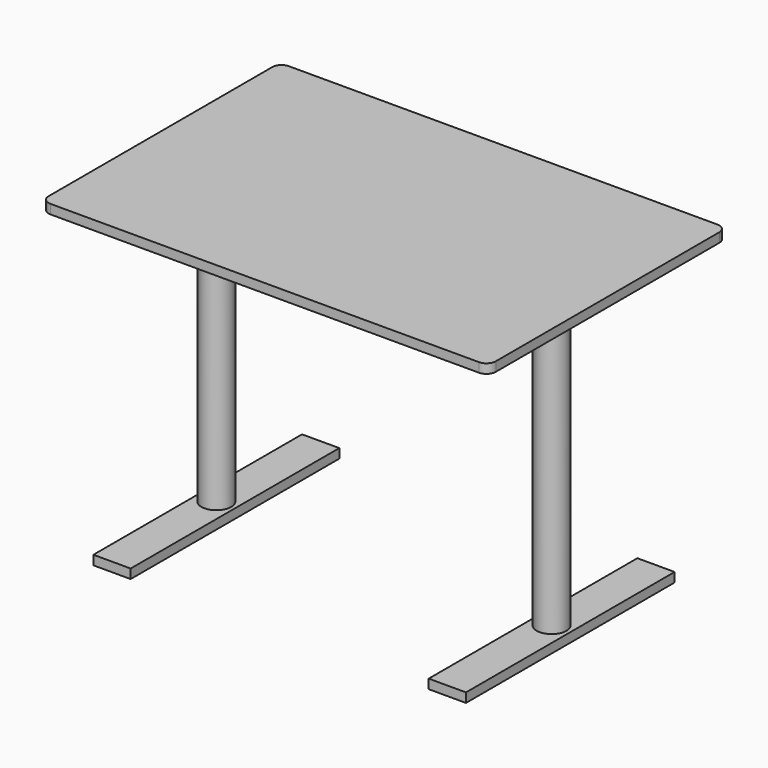
from build123d import *

# Parameters (mm, degrees)
F0_W     = 1200
F0_H     = 800
F1_DEPTH = 25
F2_R     = 40
F3_DEPTH = 800
F4_W     = 100
F4_H     = 700
F5_DEPTH = 25
F6_W     = 100
F6_H     = 700
F7_DEPTH = 25
F8_R     = 25


with BuildPart() as f1:
    # F0 (on Top) → F1 (new body)
    with BuildSketch(Plane.XY):
        with Locations((600, 400)):
            Rectangle(F0_W, F0_H)
    extrude(amount=F1_DEPTH)

    # F2 (on face) → F3 (join)
    with BuildSketch(Plane(origin=(0, 0, 0), x_dir=(1, 0, 0), z_dir=(0, 0, -1))):
        with Locations((150, -400)):
            Circle(F2_R)
        with Locations((1050, -400)):
            Circle(F2_R)
    extrude(amount=F3_DEPTH)

    # F4 (on face) → F5 (join)
    with BuildSketch(Plane(origin=(0, 0, -800), x_dir=(1, 0, 0), z_dir=(0, 0, -1))):
        with Locations((150, -400)):
            Rectangle(F4_W, F4_H)
    extrude(amount=F5_DEPTH)

    # F6 (on face) → F7 (join)
    with BuildSketch(Plane(origin=(0, 0, -800), x_dir=(1, 0, 0), z_dir=(0, 0, -1))):
        with Locations((1050, -400)):
            Rectangle(F6_W, F6_H)
    extrude(amount=F7_DEPTH)

    # F8
    f8_edges = [f1.edges().sort_by_distance(p)[0] for p in [
        (1200, 0, 12.5),
        (1200, 800, 12.5),
        (0, 0, 12.5),
        (0, 800, 12.5),
    ]]
    fillet(f8_edges, radius=F8_R)


with BuildPart() as f9_1:
    # F9: copy of F1
    add(f1.part)


solid = f1.part
